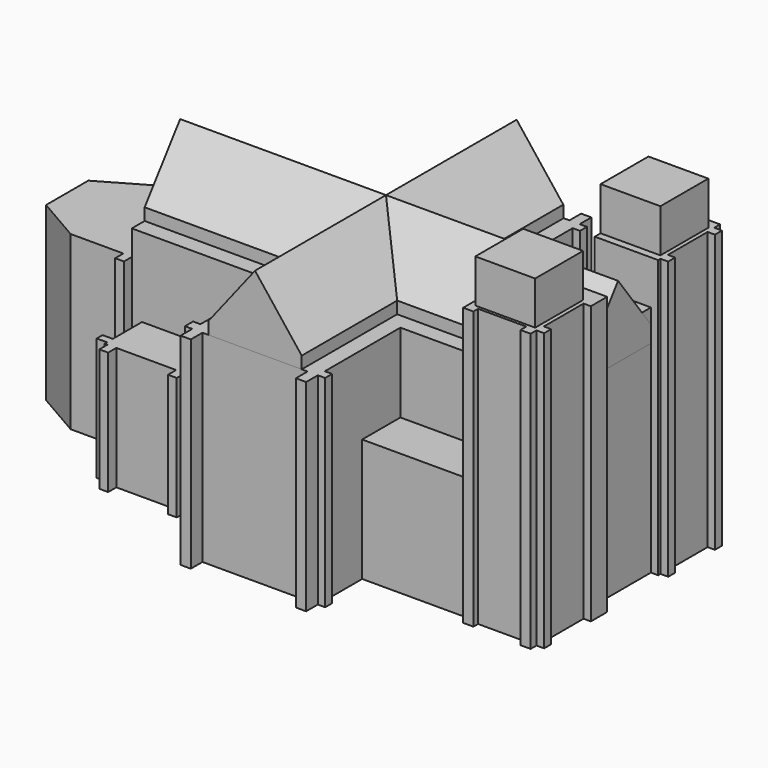
from build123d import *

# Parameters (mm, degrees)
F1_DEPTH  = 58.87
F2_DEPTH  = 69.14
F3_DEPTH  = 109.86
F4_DEPTH  = 95.04
F0_W      = 37
F0_H      = 16.3545590473
F5_DEPTH  = 42.05
F6_DEPTH  = 79.96
F8_DEPTH  = 150
F10_DEPTH = 112


with BuildPart() as f1:
    # F0 (on Top) → F1 (new body)
    with BuildSketch(Plane.XY):
        Polygon((-155.1193287611, 46.8162132949), (-155.1193287611, 82.9299445897), (-157.1193287611, 82.9299445897), (-157.1193287611, 86.4299445897), (-160.1193287611, 86.4299445897), (-160.1193287611, 82.9299445897), (-178.1763287611, 82.9299445897), (-193.8146996498, 73.901511766), (-193.8146996498, 64.8730789423), (-193.8146996498, 55.8446461186), (-178.1763287611, 46.8162132949), (-160.1193287611, 46.8162132949), (-160.1193287611, 43.3162132949), (-157.1193287611, 43.3162132949), (-157.1193287611, 46.8162132949), align=None)
    extrude(amount=F1_DEPTH)

    # F0 (on Top) → F2 (join)
    with BuildSketch(Plane.XY):
        Polygon((-24.369916356, 85.5801147534), (-26.119916356, 85.5801147534), (-63.119916356, 85.5801147534), (-106.119916356, 85.5801147534), (-151.6193287611, 85.5801147534), (-155.1193287611, 85.5801147534), (-155.1193287611, 82.9299445897), (-155.1193287611, 46.8162132949), (-155.1193287611, 44.1660431312), (-151.6193287611, 44.1660431312), (-106.2480262143, 44.1660431312), (-63.119916356, 44.1660431312), (-26.119916356, 44.1660431312), (-24.369916356, 44.1660431312), (-24.369916356, 48.3114840839), (-24.369916356, 53.8162132949), (-24.369916356, 78.9299445897), (-24.369916356, 81.4346738007), align=None)
        Polygon((-63.119916356, 85.5801147534), (-63.119916356, 101.9346738007), (-63.119916356, 117.9346738007), (-60.619916356, 117.9346738007), (-60.619916356, 120.9346738007), (-63.119916356, 120.9346738007), (-63.119916356, 125.9346738007), (-66.619916356, 125.9346738007), (-66.619916356, 120.9346738007), (-102.619916356, 120.9346738007), (-102.619916356, 125.9346738007), (-106.119916356, 125.9346738007), (-106.119916356, 120.9346738007), (-108.619916356, 120.9346738007), (-108.619916356, 117.4346738007), (-106.119916356, 117.4346738007), (-106.119916356, 101.4346738007), (-106.119916356, 85.5801147534), align=None)
        Polygon((-63.119916356, 27.8114840839), (-63.119916356, 44.1660431312), (-106.2480262143, 44.1660431312), (-106.119916356, 28.3114840839), (-106.119916356, 12.3114840839), (-108.619916356, 12.3114840839), (-108.619916356, 8.8114840839), (-106.119916356, 8.8114840839), (-106.119916356, 3.8114840839), (-102.619916356, 3.8114840839), (-102.619916356, 8.8114840839), (-66.619916356, 8.8114840839), (-66.619916356, 3.8114840839), (-63.119916356, 3.8114840839), (-63.119916356, 8.8114840839), (-60.619916356, 8.8114840839), (-60.619916356, 11.8114840839), (-63.119916356, 11.8114840839), align=None)
    extrude(amount=F2_DEPTH)

    # F0 (on Top) → F3 (join)
    with BuildSketch(Plane.XY):
        Polygon((-24.369916356, 101.9346738007), (-24.369916356, 85.5801147534), (-24.369916356, 81.4346738007), (-3.869916356, 81.4346738007), (-3.869916356, 101.9346738007), align=None)
        Polygon((-3.869916356, 48.3114840839), (-24.369916356, 48.3114840839), (-24.369916356, 44.1660431312), (-24.369916356, 27.8114840839), (-3.869916356, 27.8114840839), align=None)
    extrude(amount=F3_DEPTH)

    # F0 (on Top) → F4 (join)
    with BuildSketch(Plane.XY):
        Polygon((-5.119916356, 53.8162132949), (-24.369916356, 53.8162132949), (-24.369916356, 48.3114840839), (-3.869916356, 48.3114840839), (-3.869916356, 27.8114840839), (-24.369916356, 27.8114840839), (-24.369916356, 44.1660431312), (-26.119916356, 44.1660431312), (-26.119916356, 27.8114840839), (-26.119916356, 24.8114840839), (-22.619916356, 24.8114840839), (-22.619916356, 26.8114840839), (-6.119916356, 26.8114840839), (-6.119916356, 24.3114840839), (-2.619916356, 24.3114840839), (-2.619916356, 26.8114840839), (0, 26.8162132949), (0, 29.8162132949), (-2.5, 29.8162132949), (-2.5, 46.8162132949), (0, 46.8162132949), (0, 53.8162132949), align=None)
        Polygon((-2.619916356, 102.9346738007), (-2.619916356, 105.4346738007), (-6.119916356, 105.4346738007), (-6.119916356, 102.9346738007), (-22.619916356, 102.9346738007), (-22.619916356, 104.9346738007), (-26.119916356, 104.9346738007), (-26.119916356, 101.9346738007), (-26.119916356, 85.5801147534), (-24.369916356, 85.5801147534), (-24.369916356, 101.9346738007), (-3.869916356, 101.9346738007), (-3.869916356, 81.4346738007), (-24.369916356, 81.4346738007), (-24.369916356, 78.9299445897), (-5.119916356, 78.9299445897), (-2.619916356, 78.9299445897), (-2.619916356, 79.9299445897), (0, 79.9299445897), (0, 82.9299445897), (-2.5, 82.9299445897), (-2.5, 99.9299445897), (0, 99.9299445897), (0, 102.9299445897), align=None)
    extrude(amount=F4_DEPTH)

    # F0 (on Top) → F5 (join)
    with BuildSketch(Plane.XY):
        with Locations((-44.619916356, 93.7573942771)):
            Rectangle(F0_W, F0_H)
        Polygon((-151.6193287611, 85.5801147534), (-106.119916356, 85.5801147534), (-106.119916356, 101.4346738007), (-124.1193287611, 101.5801147534), (-124.1193287611, 105.0801147534), (-127.1193287611, 105.0801147534), (-127.1193287611, 101.5801147534), (-147.6193287611, 101.5801147534), (-147.6193287611, 105.0801147534), (-150.6193287611, 105.0801147534), (-150.6193287611, 101.5801147534), (-151.6193287611, 101.5801147534), (-151.6193287611, 100.5801147534), (-155.1193287611, 100.5801147534), (-155.1193287611, 98.0801147534), (-151.6193287611, 98.0801147534), align=None)
        with Locations((-44.619916356, 35.9887636075)):
            Rectangle(F0_W, F0_H)
        Polygon((-106.2480262143, 44.1660431312), (-151.6193287611, 44.1660431312), (-151.6193287611, 31.6660431312), (-155.1193287611, 31.6660431312), (-155.1193287611, 29.1660431312), (-151.6193287611, 29.1660431312), (-151.6193287611, 28.1660431312), (-150.6193287611, 28.1660431312), (-150.6193287611, 24.6660431312), (-147.6193287611, 24.6660431312), (-147.6193287611, 28.1660431312), (-127.1193287611, 28.1660431312), (-127.1193287611, 24.6660431312), (-124.1193287611, 24.6660431312), (-124.1193287611, 28.1660431312), (-106.119916356, 28.3114840839), align=None)
    extrude(amount=F5_DEPTH)

    # F0 (on Top) → F6 (join)
    with BuildSketch(Plane.XY):
        Polygon((-5.119916356, 64.8730789423), (-5.119916356, 78.9299445897), (-24.369916356, 78.9299445897), (-24.369916356, 53.8162132949), (-5.119916356, 53.8162132949), align=None)
    extrude(amount=F6_DEPTH)


with BuildPart() as f8:
    # F7 (on face) → F8 (new body)
    with BuildSketch(Plane(origin=(-155.1193287611, 0, 0), x_dir=(0, -1, 0), z_dir=(-1, 0, 0))):
        Polygon((-80.0701147534, 73.27), (-80.0701147534, 69.14), (-49.6760431312, 69.14), (-49.6760431312, 73.27), (-64.8730789423, 93.69), align=None)
    extrude(amount=-F8_DEPTH)


with BuildPart() as f10:
    # F9 (on face) → F10 (new body)
    with BuildSketch(Plane.XZ.offset(-8.8114840839)):
        Polygon((-100.609916356, 73.27), (-100.609916356, 69.14), (-68.629916356, 69.14), (-68.629916356, 73.27), (-84.619916356, 93.69), align=None)
    extrude(amount=-F10_DEPTH)


solid = Compound([f1.part, f8.part, f10.part])
